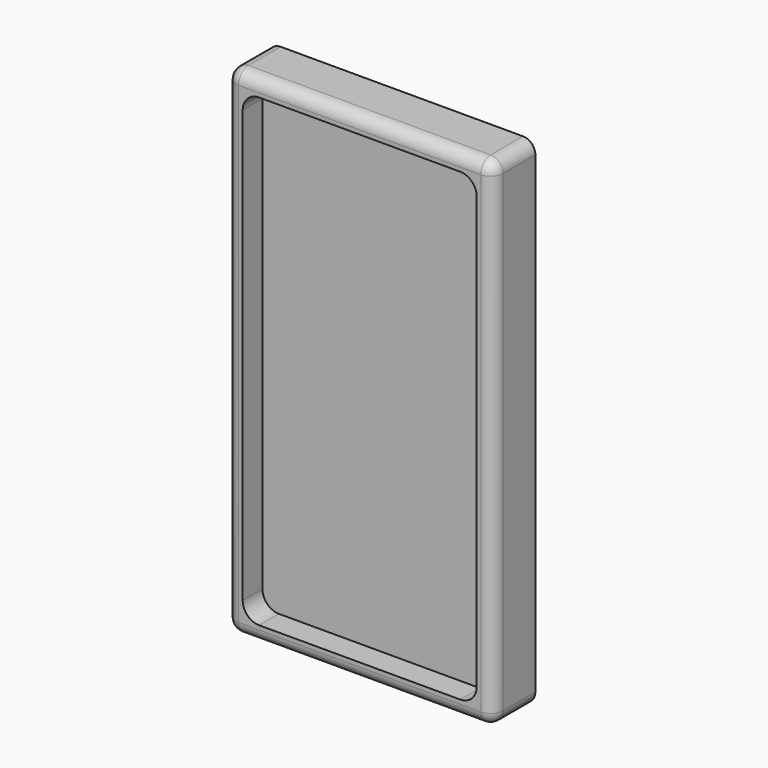
from build123d import *

# Parameters (mm, degrees)
F0_W     = 82.296
F0_H     = 153.416
F1_DEPTH = 16.256
F2_W     = 72.136
F2_H     = 143.256
F3_DEPTH = 7.62
F4_R     = 5.08
F5_R     = 5.08
F6_R     = 5.08
F7_R     = 5.08
F8_R     = 3.81
F9_R     = 3.81


with BuildPart() as f1:
    # F0 (on Front) → F1 (new body)
    with BuildSketch(Plane.XZ):
        Rectangle(F0_W, F0_H)
    extrude(amount=F1_DEPTH)

    # F2 (on face) → F3 (cut)
    with BuildSketch(Plane.XZ.offset(16.256)):
        Rectangle(F2_W, F2_H)
    extrude(amount=-F3_DEPTH, mode=Mode.SUBTRACT)

    # F4
    f4_edges = [f1.edges().sort_by_distance(p)[0] for p in [
        (-36.068, -12.446, 71.628),
    ]]
    fillet(f4_edges, radius=F4_R)

    # F5
    f5_edges = [f1.edges().sort_by_distance(p)[0] for p in [
        (36.068, -12.446, 71.628),
    ]]
    fillet(f5_edges, radius=F5_R)

    # F6
    f6_edges = [f1.edges().sort_by_distance(p)[0] for p in [
        (36.068, -12.446, -71.628),
    ]]
    fillet(f6_edges, radius=F6_R)

    # F7
    f7_edges = [f1.edges().sort_by_distance(p)[0] for p in [
        (-36.068, -12.446, -71.628),
    ]]
    fillet(f7_edges, radius=F7_R)

    # F8
    f8_edges = [f1.edges().sort_by_distance(p)[0] for p in [
        (41.148, -16.256, 0),
        (-41.148, -16.256, 0),
    ]]
    fillet(f8_edges, radius=F8_R)

    # F9
    f9_edges = [f1.edges().sort_by_distance(p)[0] for p in [
        (0, -16.256, 76.708),
        (0, -16.256, -76.708),
    ]]
    fillet(f9_edges, radius=F9_R)


solid = f1.part
